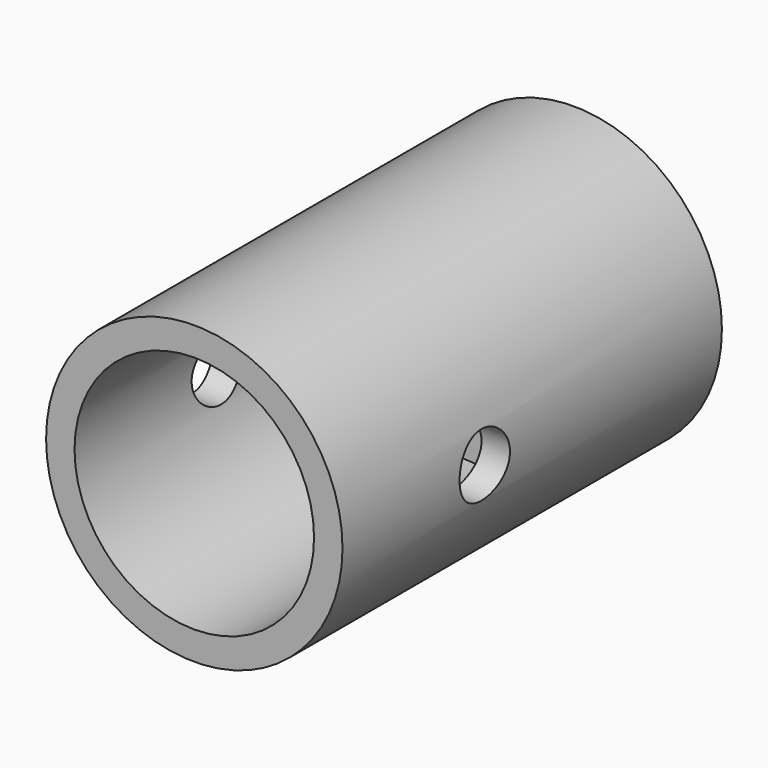
from build123d import *

# Parameters (mm, degrees)
F0_R     = 15.875
F1_DEPTH = 50.8
F2_R     = 12.827
F3_DEPTH = 38.1
F5_DEPTH = 12.7
F6_R     = 3.373438
F7_DEPTH = 15.875


with BuildPart() as f1:
    # F0 (on Front) → F1 (new body)
    with BuildSketch(Plane.XZ):
        Circle(F0_R)
    extrude(amount=F1_DEPTH)

    # F2 (on face) → F3 (cut)
    with BuildSketch(Plane.XZ.offset(50.8)):
        Circle(F2_R)
    extrude(amount=-F3_DEPTH, mode=Mode.SUBTRACT)

    # F4 (on face) → F5 (cut)
    with BuildSketch(Plane.XZ.offset(12.7)):
        Polygon((7.405636, -0.023035), (3.722767, 6.401951), (-3.682869, 6.424986), (-7.405636, 0.023035), (-3.722767, -6.401951), (3.682869, -6.424986), align=None)
    extrude(amount=-F5_DEPTH, mode=Mode.SUBTRACT)

    # F6 (on Right) → F7 (cut, symmetric)
    with BuildSketch(Plane.YZ):
        with Locations((-31.75, 0)):
            Circle(F6_R)
    extrude(amount=F7_DEPTH, both=True, mode=Mode.SUBTRACT)


solid = f1.part
